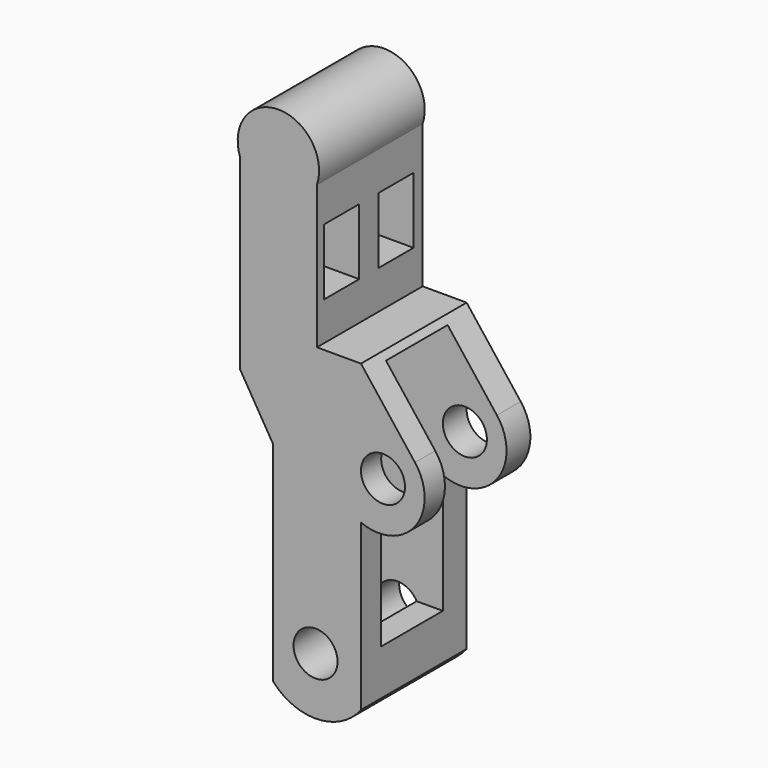
from build123d import *

# Parameters (mm, degrees)
F0_R          = 2
F1_DEPTH      = 12
F2_W          = 4
F2_H          = 6
F3_DEPTH      = 7.197026
F4_W          = 7
F4_H          = 23
F5_DEPTH      = 13.288298
F5_DEPTH_BACK = 25


with BuildPart() as f1:
    # F0 (on Front) → F1 (new body)
    with BuildSketch(Plane.XZ):
        with BuildLine():
            ThreePointArc((3.5, 38.256184), (0, 43.139899), (-3.5, 38.256184))
            Line((-3.5, 38.256184), (-3.5, 21.256184))
            Line((-3.5, 21.256184), (-0.5, 16.256184))
            Line((-0.5, 16.256184), (-0.5, -2.743816))
            ThreePointArc((-0.5, -2.743816), (3.571034, -4.470437), (7.5, -2.44121))
            Line((7.5, -2.44121), (7.5, 12.55879))
            ThreePointArc((7.5, 12.55879), (12.424485, 13.851518), (12.410766, 18.942835))
            Line((12.410766, 18.942835), (7.5, 25.256184))
            Line((7.5, 25.256184), (3.5, 25.256184))
            Line((3.5, 25.256184), (3.5, 38.256184))
        make_face()
        with Locations((3.374378, 0.728549)):
            Circle(F0_R, mode=Mode.SUBTRACT)
        with Locations((9.5, 16.695214)):
            Circle(F0_R, mode=Mode.SUBTRACT)
    extrude(amount=F1_DEPTH)

    # F2 (on face) → F3 (cut, through all)
    with BuildSketch(Plane.YZ.offset(3.5)):
        with Locations((-9.2, 31.756184)):
            Rectangle(F2_W, F2_H)
        with Locations((-3.030456, 31.756184)):
            Rectangle(F2_W, F2_H)
    extrude(amount=-F3_DEPTH, mode=Mode.SUBTRACT)

    # F4 (on Right) → F5 (cut, two sides)
    with BuildSketch(Plane.YZ) as f5_sk:
        with Locations((-6.200001, 13.2)):
            Rectangle(F4_W, F4_H)
    extrude(amount=F5_DEPTH, mode=Mode.SUBTRACT)
    extrude(f5_sk.sketch, amount=-F5_DEPTH_BACK, mode=Mode.SUBTRACT)


solid = f1.part
